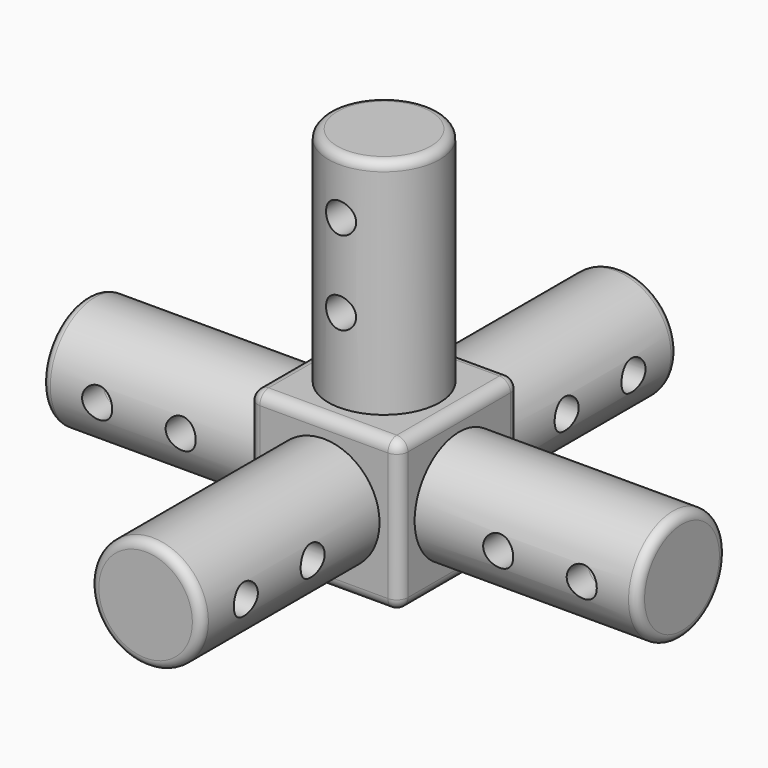
from build123d import *

# Parameters (mm, degrees)
F0_W      = 34.29
F0_H      = 34.29
F1_DEPTH  = 34.29
F2_R      = 12.7
F3_DEPTH  = 50.8
F4_R      = 12.7
F5_DEPTH  = 50.8
F6_R      = 12.7
F7_DEPTH  = 50.8
F8_R      = 3.429
F9_DEPTH  = 25.4
F10_R     = 3.429
F11_DEPTH = 25.4
F12_R     = 3.429
F13_DEPTH = 25.4
F14_R     = 2.54
F15_R     = 12.7
F16_DEPTH = 50.8
F17_R     = 3.429
F18_DEPTH = 25.4
F19_R     = 12.7
F20_DEPTH = 50.8
F21_R     = 2.032
F22_R     = 3.429
F23_DEPTH = 25.4


with BuildPart() as f1:
    # F0 (on Top) → F1 (new body)
    with BuildSketch(Plane.XY):
        with Locations((3.672889, 6.561064)):
            Rectangle(F0_W, F0_H)
    extrude(amount=F1_DEPTH)

    # F2 (on face) → F3 (join)
    with BuildSketch(Plane.XY.offset(34.29)):
        with Locations((3.682848, 6.561064)):
            Circle(F2_R)
    extrude(amount=F3_DEPTH)

    # F4 (on face) → F5 (join)
    with BuildSketch(Plane(origin=(-13.472111, 0, 0), x_dir=(0, -1, 0), z_dir=(-1, 0, 0))):
        with Locations((-6.561064, 17.145)):
            Circle(F4_R)
    extrude(amount=F5_DEPTH)

    # F6 (on face) → F7 (join)
    with BuildSketch(Plane.XZ.offset(10.583936)):
        with Locations((3.672889, 17.145)):
            Circle(F6_R)
    extrude(amount=F7_DEPTH)

    # F8 (on Front) → F9 (cut, symmetric)
    with BuildSketch(Plane.XZ):
        with Locations((3.672889, 53.34)):
            Circle(F8_R)
        with Locations((3.672889, 72.39)):
            Circle(F8_R)
    extrude(amount=F9_DEPTH, both=True, mode=Mode.SUBTRACT)

    # F10 (on Right) → F11 (cut, symmetric)
    with BuildSketch(Plane.YZ):
        with Locations((-29.633936, 17.145)):
            Circle(F10_R)
        with Locations((-48.683936, 17.145)):
            Circle(F10_R)
    extrude(amount=F11_DEPTH, both=True, mode=Mode.SUBTRACT)

    # F12 (on Front) → F13 (cut, symmetric)
    with BuildSketch(Plane.XZ):
        with Locations((-51.572111, 17.145)):
            Circle(F12_R)
        with Locations((-32.522111, 17.145)):
            Circle(F12_R)
    extrude(amount=F13_DEPTH, both=True, mode=Mode.SUBTRACT)

    # F14
    f14_edges = [f1.edges().sort_by_distance(p)[0] for p in [
        (20.817889, 23.706064, 17.145),
        (20.817889, 6.561064, 34.29),
        (20.817889, -10.583936, 17.145),
        (20.817889, 6.561064, 0),
        (3.672889, 23.706064, 0),
        (3.672889, 23.706064, 34.29),
        (-13.472111, 23.706064, 17.145),
        (-13.472111, 6.561064, 0),
        (3.672889, -10.583936, 0),
        (-13.472111, 6.561064, 34.29),
        (-13.472111, -10.583936, 17.145),
        (3.672889, -10.583936, 34.29),
    ]]
    fillet(f14_edges, radius=F14_R)

    # F15 (on face) → F16 (join)
    with BuildSketch(Plane(origin=(0, 23.706064, 0), x_dir=(-1, 0, 0), z_dir=(0, 1, 0))):
        with Locations((-3.672889, 17.145)):
            Circle(F15_R)
    extrude(amount=F16_DEPTH)

    # F17 (on Right) → F18 (cut, symmetric)
    with BuildSketch(Plane.YZ):
        with Locations((42.756064, 17.145)):
            Circle(F17_R)
        with Locations((61.806064, 17.145)):
            Circle(F17_R)
    extrude(amount=F18_DEPTH, both=True, mode=Mode.SUBTRACT)

    # F19 (on face) → F20 (join)
    with BuildSketch(Plane.YZ.offset(20.817889)):
        with Locations((6.561064, 17.145)):
            Circle(F19_R)
    extrude(amount=F20_DEPTH)

    # F21
    f21_edges = [f1.edges().sort_by_distance(p)[0] for p in [
        (-9.017152, 6.561064, 85.09),
        (-9.027111, -61.383936, 17.145),
        (-64.272111, 19.261064, 17.145),
        (16.372889, 74.506064, 17.145),
        (71.617889, -6.138936, 17.145),
    ]]
    fillet(f21_edges, radius=F21_R)

    # F22 (on Front) → F23 (cut, symmetric)
    with BuildSketch(Plane.XZ):
        with Locations((58.917889, 17.145)):
            Circle(F22_R)
        with Locations((39.867889, 17.145)):
            Circle(F22_R)
    extrude(amount=F23_DEPTH, both=True, mode=Mode.SUBTRACT)


solid = f1.part
